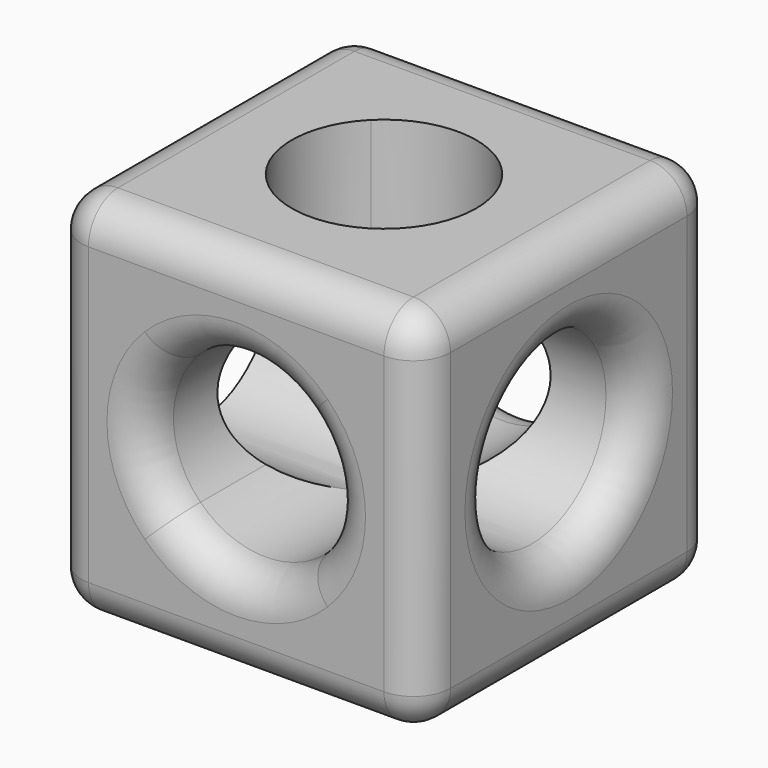
from build123d import *

# Parameters (mm, degrees)
F1_DEPTH = 50.8
F3_R     = 12.7614495694
F4_DEPTH = 50.8
F5_DEPTH = 25.4
F6_R     = 5.08


with BuildPart() as f1:
    # F0 (on Front) → F1 (new body)
    with BuildSketch(Plane.XZ):
        with BuildLine():
            Line((0, 50.8000037167), (0, 0))
            Line((0, 0), (16.4197442074, 16.4197454088))
            ThreePointArc((16.4197442074, 16.4197454088), (12.7, 25.4000018583), (16.4197442074, 34.3802583079))
            Line((16.4197442074, 34.3802583079), (0, 50.8000037167))
        make_face()
        with BuildLine():
            Line((50.8, 50.8000037167), (0, 50.8000037167))
            Line((0, 50.8000037167), (16.4197442074, 34.3802583079))
            ThreePointArc((16.4197442074, 34.3802583079), (25.4, 38.1000018583), (34.3802557926, 34.3802583079))
            Line((34.3802557926, 34.3802583079), (50.8, 50.8000037167))
        make_face()
        with BuildLine():
            Line((34.3802557926, 16.4197454088), (50.8, 0))
            Line((50.8, 0), (50.8, 50.8000037167))
            Line((50.8, 50.8000037167), (34.3802557926, 34.3802583079))
            ThreePointArc((34.3802557926, 34.3802583079), (37.133269974, 30.260081664), (38.1, 25.4000018583))
            ThreePointArc((38.1, 25.4000018583), (37.133269974, 20.5399220527), (34.3802557926, 16.4197454088))
        make_face()
        with BuildLine():
            Line((16.4197442074, 16.4197454088), (0, 0))
            Line((0, 0), (50.8, 0))
            Line((50.8, 0), (34.3802557926, 16.4197454088))
            ThreePointArc((34.3802557926, 16.4197454088), (25.4, 12.7000018583), (16.4197442074, 16.4197454088))
        make_face()
    extrude(amount=F1_DEPTH)

    # F3 (on face) → F4 (cut)
    with BuildSketch(Plane.YZ.offset(50.8)):
        with Locations((-25.4, 25.4000018583)):
            Circle(F3_R)
    extrude(amount=-F4_DEPTH, mode=Mode.SUBTRACT)

    # F2 (on face) → F5 (cut)
    with BuildSketch(Plane.XY.offset(50.8000037167)):
        with BuildLine():
            ThreePointArc((38.1, -25.4), (37.1332700629, -20.539920409), (34.3802561211, -16.4197438789))
            Line((34.3802561211, -16.4197438789), (25.4, -25.4))
            Line((25.4, -25.4), (34.3802561211, -34.3802561211))
            ThreePointArc((34.3802561211, -34.3802561211), (37.1332700629, -30.260079591), (38.1, -25.4))
        make_face()
        with BuildLine():
            Line((25.4, -25.4), (34.3802561211, -16.4197438789))
            ThreePointArc((34.3802561211, -16.4197438789), (25.4, -12.7), (16.4197438789, -16.4197438789))
            Line((16.4197438789, -16.4197438789), (25.4, -25.4))
        make_face()
        with BuildLine():
            Line((34.3802561211, -34.3802561211), (25.4, -25.4))
            Line((25.4, -25.4), (16.4197438789, -34.3802561211))
            ThreePointArc((16.4197438789, -34.3802561211), (25.4, -38.1), (34.3802561211, -34.3802561211))
        make_face()
        with BuildLine():
            Line((16.4197438789, -34.3802561211), (25.4, -25.4))
            Line((25.4, -25.4), (16.4197438789, -16.4197438789))
            ThreePointArc((16.4197438789, -16.4197438789), (12.7, -25.4), (16.4197438789, -34.3802561211))
        make_face()
    extrude(amount=-F5_DEPTH, mode=Mode.SUBTRACT)

    # F6
    f6_edges = [f1.edges().sort_by_distance(p)[0] for p in [
        (0, -25.4, 50.800004),
        (0, -50.8, 25.400002),
        (50.8, -50.8, 25.400002),
        (50.8, 0, 25.400002),
        (50.8, -25.4, 50.800004),
        (50.8, -25.4, 0),
        (50.8, -38.16145, 25.400002),
        (25.4, -50.8, 0),
        (25.4, -50.8, 50.800004),
        (16.419744, -50.8, 34.380258),
        (0, -25.4, 0),
        (0, 0, 25.400002),
        (25.4, 0, 50.800004),
        (25.4, 0, 0),
        (16.419744, 0, 34.380258),
    ]]
    fillet(f6_edges, radius=F6_R)


solid = f1.part
